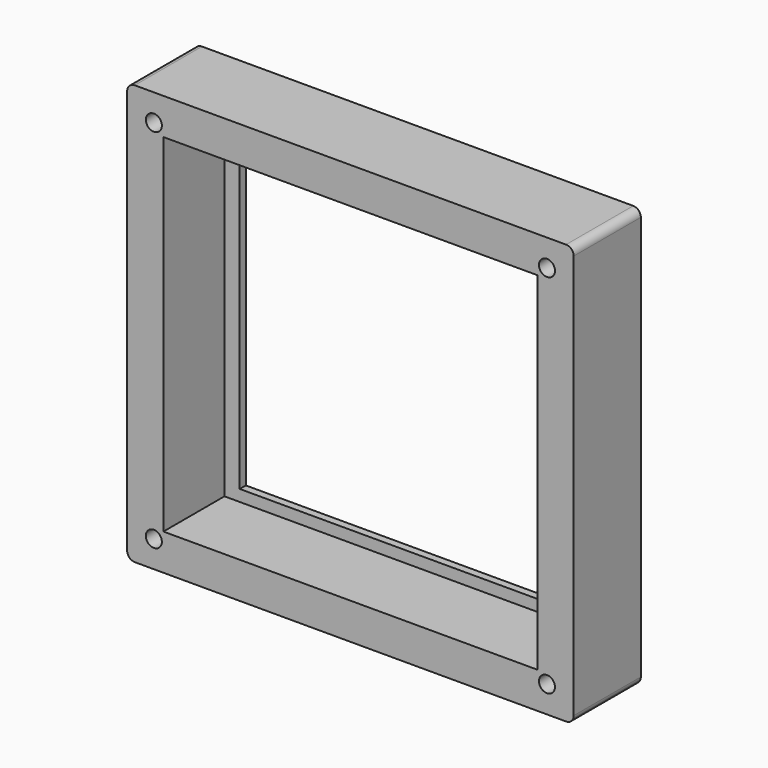
from build123d import *

# Parameters (mm, degrees)
SKETCH009_W     = 58.5
SKETCH009_H     = 55
PAD005_DEPTH    = 11
SKETCH010_W     = 49
SKETCH010_H     = 45.5
POCKET004_DEPTH = 10
SKETCH011_W     = 45
SKETCH011_H     = 42.5
POCKET005_DEPTH = 5
SKETCH012_R     = 1.05
POCKET006_DEPTH = 12
FILLET003_R     = 1


with BuildPart() as part:
    # Sketch009 → Pad005 (new body)
    with BuildSketch(Plane.XZ):
        Rectangle(SKETCH009_W, SKETCH009_H)
    extrude(amount=-PAD005_DEPTH)

    # Sketch010 (on Face5 of Pad005) → Pocket004 (cut)
    with BuildSketch(Plane.XZ):
        Rectangle(SKETCH010_W, SKETCH010_H)
    extrude(amount=-POCKET004_DEPTH, mode=Mode.SUBTRACT)

    # Sketch011 (on Face11 of Pocket004) → Pocket005 (cut)
    with BuildSketch(Plane.XZ.offset(-10)):
        Rectangle(SKETCH011_W, SKETCH011_H)
    extrude(amount=-POCKET005_DEPTH, mode=Mode.SUBTRACT)

    # Sketch012 (on Face4 of Pocket005) → Pocket006 (cut)
    with BuildSketch(Plane.XZ):
        with Locations((-25.75, 24)):
            Circle(SKETCH012_R)
        with Locations((25.75, 24)):
            Circle(SKETCH012_R)
        with Locations((-25.75, -24)):
            Circle(SKETCH012_R)
        with Locations((25.75, -24)):
            Circle(SKETCH012_R)
    extrude(amount=-POCKET006_DEPTH, mode=Mode.SUBTRACT)

    # Fillet003
    fillet003_edges = [part.edges().sort_by_distance(p)[0] for p in [
        (29.25, 5.5, 27.5),
        (29.25, 5.5, -27.5),
        (-29.25, 5.5, 27.5),
        (-29.25, 5.5, -27.5),
    ]]
    fillet(fillet003_edges, radius=FILLET003_R)


solid = part.part
